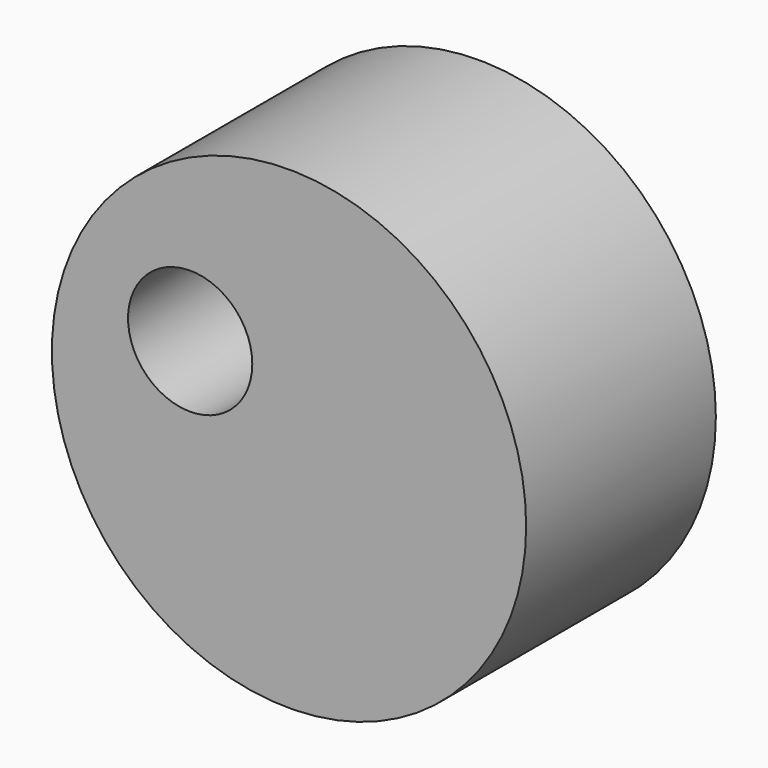
from build123d import *

# Parameters (mm, degrees)
F0_R     = 25.4
F1_DEPTH = 25.4
F2_R     = 6.653283
F3_DEPTH = 25.4


with BuildPart() as f1:
    # F0 (on Front) → F1 (new body)
    with BuildSketch(Plane.XZ):
        Circle(F0_R)
    extrude(amount=F1_DEPTH)

    # F2 (on face) → F3 (cut, through all)
    with BuildSketch(Plane.XZ.offset(25.4)):
        with Locations((-10.590343, 5.757438)):
            Circle(F2_R)
    extrude(amount=-F3_DEPTH, mode=Mode.SUBTRACT)


solid = f1.part
